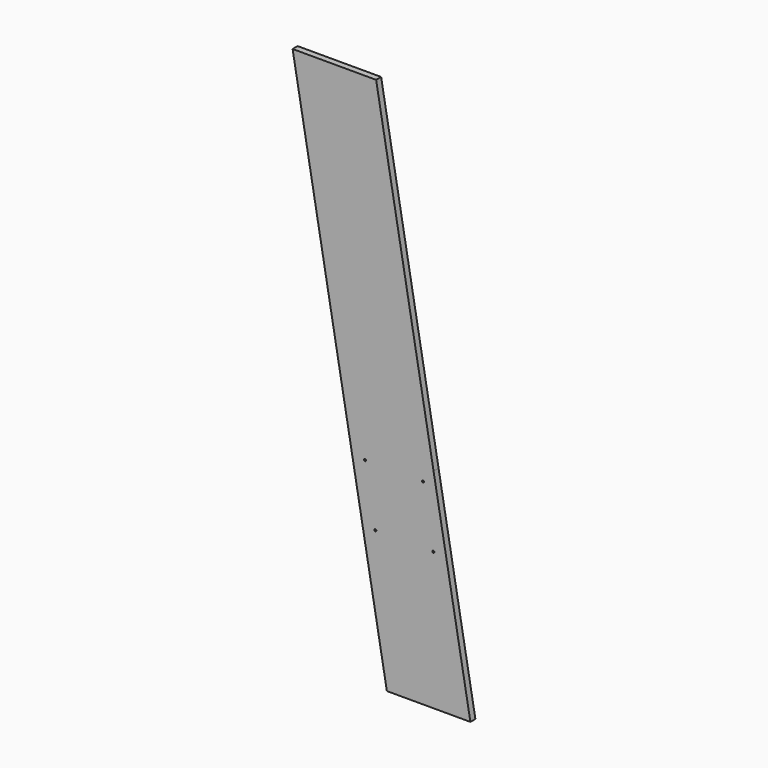
from build123d import *

# Parameters (mm, degrees)
F0_R     = 2.5
F1_DEPTH = 7.5


with BuildPart() as f1:
    # F0 (on Front) → F1 (new body, symmetric)
    with BuildSketch(Plane.XZ):
        Polygon((-25.742631, 1280.250079), (-225.742631, 1280.250079), (-88.16349, 500), (111.83651, 500), align=None)
        Polygon((111.83651, 500), (-88.16349, 500), (-52.898094, 300), (147.101906, 300), align=None)
        with Locations((-27.725105, 330)):
            Circle(F0_R, mode=Mode.SUBTRACT)
        with Locations((-52.410883, 470)):
            Circle(F0_R, mode=Mode.SUBTRACT)
        with Locations((86.663521, 470)):
            Circle(F0_R, mode=Mode.SUBTRACT)
        with Locations((111.349298, 330)):
            Circle(F0_R, mode=Mode.SUBTRACT)
        Polygon((147.101906, 300), (-52.898094, 300), (0, 0), (200, 0), align=None)
    extrude(amount=F1_DEPTH, both=True)


solid = f1.part
